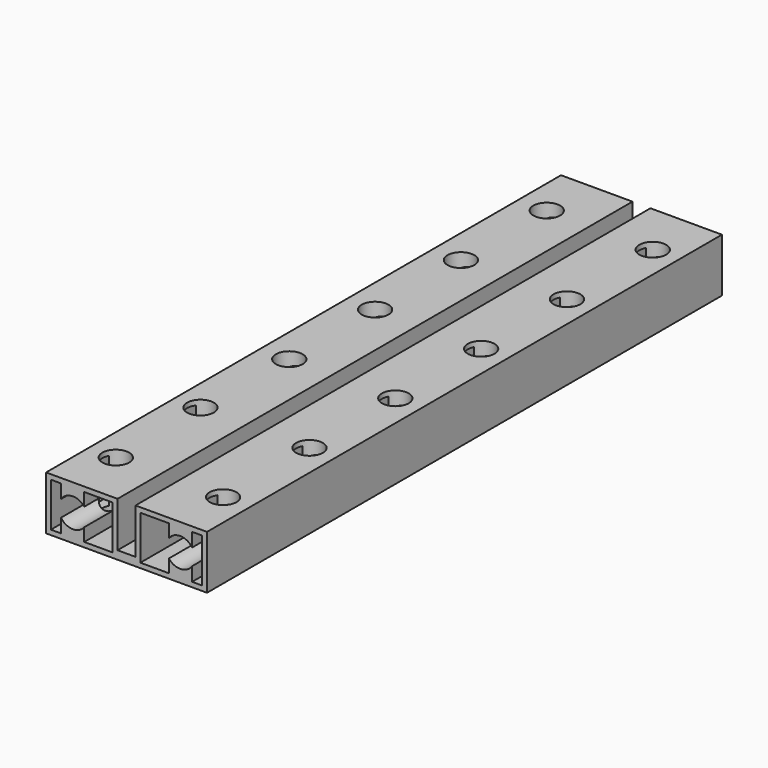
from build123d import *

# Parameters (mm, degrees)
F1_DEPTH = 96
F2_R     = 2
F3_DEPTH = 8.1


with BuildPart() as f1:
    # F0 (on Front) → F1 (new body)
    with BuildSketch(Plane.XZ):
        Polygon((-1.34, 4), (-12, 4), (-12, -4), (12, -4), (12, 4), (1.34, 4), (1.34, -2.75), (-1.34, -2.75), align=None)
        Polygon((-6.31, 3.28), (-2.06, 3.28), (-2.06, -3.28), (-6.31, -3.28), (-9.78, -3.28), (-11.28, -3.28), (-11.28, 3.28), (-9.78, 3.28), align=None, mode=Mode.SUBTRACT)
        Polygon((11.28, 3.28), (11.28, -3.28), (9.78, -3.28), (6.31, -3.28), (2.06, -3.28), (2.06, 3.28), (6.31, 3.28), (9.78, 3.28), align=None, mode=Mode.SUBTRACT)
        with BuildLine():
            Line((-6.31, 1.345177), (-6.31, 3.28))
            Line((-6.31, 3.28), (-9.78, 3.28))
            Line((-9.78, 3.28), (-9.78, 1.223601))
            ThreePointArc((-9.78, 1.223601), (-8.075632, 2.158675), (-6.31, 1.345177))
        make_face()
        with BuildLine():
            Line((-9.78, -3.28), (-6.31, -3.28))
            Line((-6.31, -3.28), (-6.31, -1.345177))
            ThreePointArc((-6.31, -1.345177), (-8.075632, -2.158675), (-9.78, -1.223601))
            Line((-9.78, -1.223601), (-9.78, -3.28))
        make_face()
        with BuildLine():
            Line((9.78, 1.223601), (9.78, 3.28))
            Line((9.78, 3.28), (6.31, 3.28))
            Line((6.31, 3.28), (6.31, 1.345177))
            ThreePointArc((6.31, 1.345177), (8.075632, 2.158675), (9.78, 1.223601))
        make_face()
        with BuildLine():
            Line((6.31, -3.28), (9.78, -3.28))
            Line((9.78, -3.28), (9.78, -1.223601))
            ThreePointArc((9.78, -1.223601), (8.075632, -2.158675), (6.31, -1.345177))
            Line((6.31, -1.345177), (6.31, -3.28))
        make_face()
    extrude(amount=F1_DEPTH)

    # F2 (on face) → F3 (cut)
    with BuildSketch(Plane.XY.offset(4)):
        with Locations((-8, -88)):
            Circle(F2_R)
        with Locations((8, -88)):
            Circle(F2_R)
        with Locations((-8.176223, -72)):
            Circle(F2_R)
        with Locations((8.085492, -72)):
            Circle(F2_R)
        with Locations((-7.726881, -56)):
            Circle(F2_R)
        with Locations((8.085492, -56)):
            Circle(F2_R)
        with Locations((-7.726881, -40)):
            Circle(F2_R)
        with Locations((8.085492, -40)):
            Circle(F2_R)
        with Locations((-7.726881, -24)):
            Circle(F2_R)
        with Locations((8.085492, -24)):
            Circle(F2_R)
        with Locations((8.085492, -8)):
            Circle(F2_R)
        with Locations((-7.726881, -8)):
            Circle(F2_R)
    extrude(amount=-F3_DEPTH, mode=Mode.SUBTRACT)


solid = f1.part
